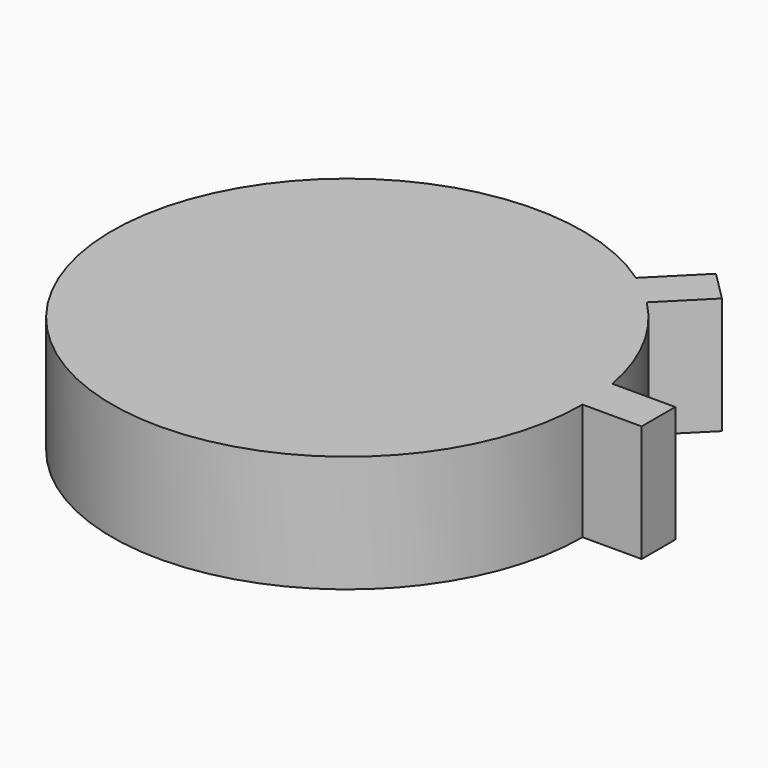
from build123d import *

# Parameters (mm, degrees)
F1_DEPTH = 25


with BuildPart() as f1:
    # F0 (on Top) → F1 (new body)
    with BuildSketch(Plane.XY):
        with BuildLine():
            Line((0, 0), (50.35, 0))
            ThreePointArc((50.35, 0), (50.146865, 4.518229), (49.539101, 9))
            ThreePointArc((49.539101, 9), (44.600611, 23.364673), (35.602826, 35.602826))
            Line((35.602826, 35.602826), (0, 0))
        make_face()
        with BuildLine():
            Line((0, 0), (50.35, 0))
            ThreePointArc((50.35, 0), (50.146865, 4.518229), (49.539101, 9))
            ThreePointArc((49.539101, 9), (44.600611, 23.364673), (35.602826, 35.602826))
            Line((35.602826, 35.602826), (0, 0))
        make_face()
        with BuildLine():
            Line((0, 0), (50.35, 0))
            ThreePointArc((50.35, 0), (50.146865, 4.518229), (49.539101, 9))
            ThreePointArc((49.539101, 9), (44.600611, 23.364673), (35.602826, 35.602826))
            Line((35.602826, 35.602826), (0, 0))
        make_face()
        with BuildLine():
            ThreePointArc((28.665473, 41.393395), (-44.600611, -23.364673), (50.35, 0))
            Line((50.35, 0), (0, 0))
            Line((0, 0), (35.602826, 35.602826))
            ThreePointArc((35.602826, 35.602826), (32.264319, 38.654059), (28.665473, 41.393395))
        make_face()
        with BuildLine():
            ThreePointArc((28.665473, 41.393395), (-44.600611, -23.364673), (50.35, 0))
            Line((50.35, 0), (0, 0))
            Line((0, 0), (35.602826, 35.602826))
            ThreePointArc((35.602826, 35.602826), (32.264319, 38.654059), (28.665473, 41.393395))
        make_face()
        with BuildLine():
            ThreePointArc((49.539101, 9), (50.146865, 4.518229), (50.35, 0))
            Line((50.35, 0), (63, 0))
            Line((63, 0), (63, 9))
            Line((63, 9), (49.539101, 9))
        make_face()
        with BuildLine():
            Line((0, 0), (50.35, 0))
            ThreePointArc((50.35, 0), (50.146865, 4.518229), (49.539101, 9))
            ThreePointArc((49.539101, 9), (44.600611, 23.364673), (35.602826, 35.602826))
            Line((35.602826, 35.602826), (0, 0))
        make_face()
        with BuildLine():
            Line((38.183766, 50.911688), (28.665473, 41.393395))
            ThreePointArc((28.665473, 41.393395), (32.264319, 38.654059), (35.602826, 35.602826))
            Line((35.602826, 35.602826), (44.547727, 44.547727))
            Line((44.547727, 44.547727), (38.183766, 50.911688))
        make_face()
        with BuildLine():
            ThreePointArc((28.665473, 41.393395), (-44.600611, -23.364673), (50.35, 0))
            Line((50.35, 0), (0, 0))
            Line((0, 0), (35.602826, 35.602826))
            ThreePointArc((35.602826, 35.602826), (32.264319, 38.654059), (28.665473, 41.393395))
        make_face()
        with BuildLine():
            ThreePointArc((49.539101, 9), (50.146865, 4.518229), (50.35, 0))
            Line((50.35, 0), (63, 0))
            Line((63, 0), (63, 9))
            Line((63, 9), (49.539101, 9))
        make_face()
        with BuildLine():
            ThreePointArc((28.665473, 41.393395), (-44.600611, -23.364673), (50.35, 0))
            Line((50.35, 0), (0, 0))
            Line((0, 0), (35.602826, 35.602826))
            ThreePointArc((35.602826, 35.602826), (32.264319, 38.654059), (28.665473, 41.393395))
        make_face()
    extrude(amount=F1_DEPTH)


solid = f1.part
